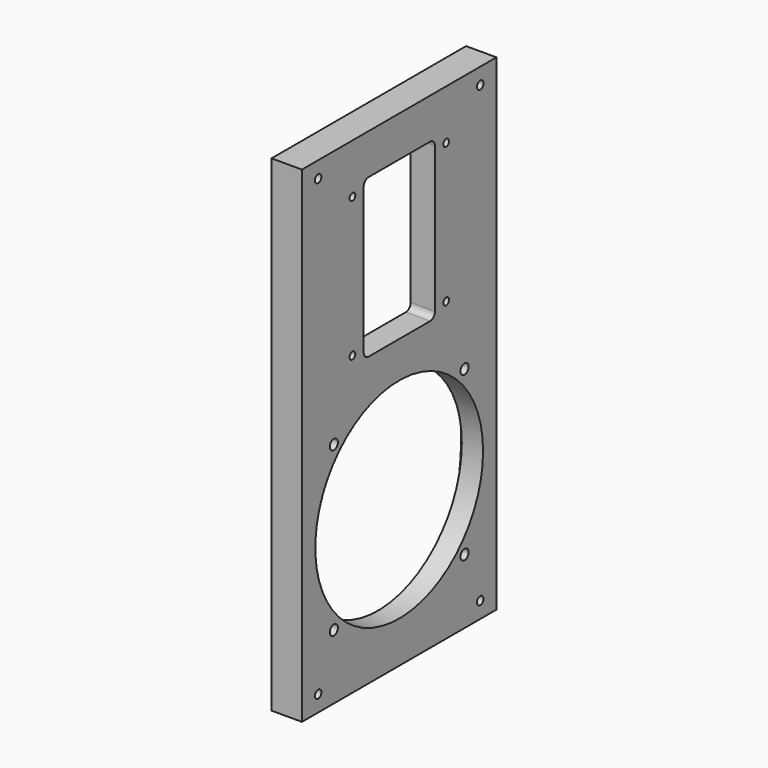
from build123d import *

# Parameters (mm, degrees)
F0_W     = 120
F0_H     = 240
F0_R     = 2
F0_R_2   = 1.75
F1_DEPTH = 15
F2_DEPTH = 12
F0_R_3   = 2.5
F0_R_4   = 51.75
F3_DEPTH = 10.5


with BuildPart() as f1:
    # F0 (on Right) → F1 (new body)
    with BuildSketch(Plane.YZ):
        with Locations((0, -1.592548)):
            Rectangle(F0_W, F0_H)
        with Locations((-49.999997, -113.592548)):
            Circle(F0_R, mode=Mode.SUBTRACT)
        with BuildLine():
            ThreePointArc((-43.965421, -1.013646), (0, 7.657452), (43.965421, -1.013646))
            ThreePointArc((43.965421, -1.013646), (46.58482, -2.757728), (48.328902, -5.377127))
            ThreePointArc((48.328902, -5.377127), (57, -49.342548), (48.328902, -93.307969))
            ThreePointArc((48.328902, -93.307969), (46.58482, -95.927368), (43.965421, -97.67145))
            ThreePointArc((43.965421, -97.67145), (0, -106.342548), (-43.965421, -97.67145))
            ThreePointArc((-43.965421, -97.67145), (-46.58482, -95.927368), (-48.328902, -93.307969))
            ThreePointArc((-48.328902, -93.307969), (-57, -49.342548), (-48.328902, -5.377127))
            ThreePointArc((-48.328902, -5.377127), (-46.58482, -2.757728), (-43.965421, -1.013646))
        make_face(mode=Mode.SUBTRACT)
        with Locations((50.000003, -113.592548)):
            Circle(F0_R, mode=Mode.SUBTRACT)
        with Locations((-45.415495, 59.40745)):
            Circle(F0_R_2, mode=Mode.SUBTRACT)
        with Locations((-49.999997, 110.407452)):
            Circle(F0_R, mode=Mode.SUBTRACT)
        with BuildLine():
            ThreePointArc((-34.517993, 95.849841), (-0.330971, 109.655772), (34.077245, 96.410744))
            ThreePointArc((34.077245, 96.410744), (34.794286, 95.408017), (35.047553, 94.201592))
            Line((35.047553, 94.201592), (35.047553, 24.613312))
            ThreePointArc((35.047553, 24.613312), (34.794286, 23.406887), (34.077245, 22.40416))
            ThreePointArc((34.077245, 22.40416), (-0.330971, 9.159132), (-34.517993, 22.965063))
            ThreePointArc((-34.517993, 22.965063), (-35.208951, 23.956802), (-35.452447, 25.140728))
            Line((-35.452447, 25.140728), (-35.452447, 93.674176))
            ThreePointArc((-35.452447, 93.674176), (-35.208951, 94.858102), (-34.517993, 95.849841))
        make_face(mode=Mode.SUBTRACT)
        with Locations((45.292415, 59.40745)):
            Circle(F0_R_2, mode=Mode.SUBTRACT)
        with Locations((50.000003, 110.407455)):
            Circle(F0_R, mode=Mode.SUBTRACT)
        with Locations((45.292415, 59.40745)):
            Circle(F0_R_2)
        with Locations((-45.415495, 59.40745)):
            Circle(F0_R_2)
    extrude(amount=-F1_DEPTH)

    # F0 (on Right) → F2 (join)
    with BuildSketch(Plane.YZ):
        with BuildLine():
            ThreePointArc((35.047553, 94.201592), (34.794286, 95.408017), (34.077245, 96.410744))
            ThreePointArc((34.077245, 96.410744), (-0.330971, 109.655772), (-34.517993, 95.849841))
            ThreePointArc((-34.517993, 95.849841), (-35.208951, 94.858102), (-35.452447, 93.674176))
            Line((-35.452447, 93.674176), (-35.452447, 25.140728))
            ThreePointArc((-35.452447, 25.140728), (-35.208951, 23.956802), (-34.517993, 22.965063))
            ThreePointArc((-34.517993, 22.965063), (-0.330971, 9.159132), (34.077245, 22.40416))
            ThreePointArc((34.077245, 22.40416), (34.794286, 23.406887), (35.047553, 24.613312))
            Line((35.047553, 24.613312), (35.047553, 94.201592))
        make_face()
        with Locations((-28.845534, 24.935452)):
            Circle(F0_R_2, mode=Mode.SUBTRACT)
        with Locations((-28.845534, 93.879452)):
            Circle(F0_R_2, mode=Mode.SUBTRACT)
        with Locations((29.005351, 24.935452)):
            Circle(F0_R_2, mode=Mode.SUBTRACT)
        with BuildLine():
            Line((-18.920092, 98.407452), (19.079908, 98.407452))
            ThreePointArc((19.079908, 98.407452), (21.201229, 97.528772), (22.079908, 95.407452))
            Line((22.079908, 95.407452), (22.079908, 23.407452))
            ThreePointArc((22.079908, 23.407452), (21.201229, 21.286132), (19.079908, 20.407452))
            Line((19.079908, 20.407452), (-18.920092, 20.407452))
            ThreePointArc((-18.920092, 20.407452), (-21.041412, 21.286132), (-21.920092, 23.407452))
            Line((-21.920092, 23.407452), (-21.920092, 95.407452))
            ThreePointArc((-21.920092, 95.407452), (-21.041412, 97.528772), (-18.920092, 98.407452))
        make_face(mode=Mode.SUBTRACT)
        with Locations((29.005351, 93.879452)):
            Circle(F0_R_2, mode=Mode.SUBTRACT)
    extrude(amount=-F2_DEPTH)

    # F0 (on Right) → F3 (join)
    with BuildSketch(Plane.YZ):
        with BuildLine():
            ThreePointArc((48.328902, -5.377127), (46.58482, -2.757728), (43.965421, -1.013646))
            ThreePointArc((43.965421, -1.013646), (0, 7.657452), (-43.965421, -1.013646))
            ThreePointArc((-43.965421, -1.013646), (-46.58482, -2.757728), (-48.328902, -5.377127))
            ThreePointArc((-48.328902, -5.377127), (-57, -49.342548), (-48.328902, -93.307969))
            ThreePointArc((-48.328902, -93.307969), (-46.58482, -95.927368), (-43.965421, -97.67145))
            ThreePointArc((-43.965421, -97.67145), (0, -106.342548), (43.965421, -97.67145))
            ThreePointArc((43.965421, -97.67145), (46.58482, -95.927368), (48.328902, -93.307969))
            ThreePointArc((48.328902, -93.307969), (57, -49.342548), (48.328902, -5.377127))
        make_face()
        with Locations((-40.305087, -89.647635)):
            Circle(F0_R_3, mode=Mode.SUBTRACT)
        with Locations((-40.305087, -9.037462)):
            Circle(F0_R_3, mode=Mode.SUBTRACT)
        with Locations((40.305087, -89.647635)):
            Circle(F0_R_3, mode=Mode.SUBTRACT)
        with Locations((0, -49.342548)):
            Circle(F0_R_4, mode=Mode.SUBTRACT)
        with Locations((40.305087, -9.037462)):
            Circle(F0_R_3, mode=Mode.SUBTRACT)
    extrude(amount=-F3_DEPTH)


solid = f1.part
